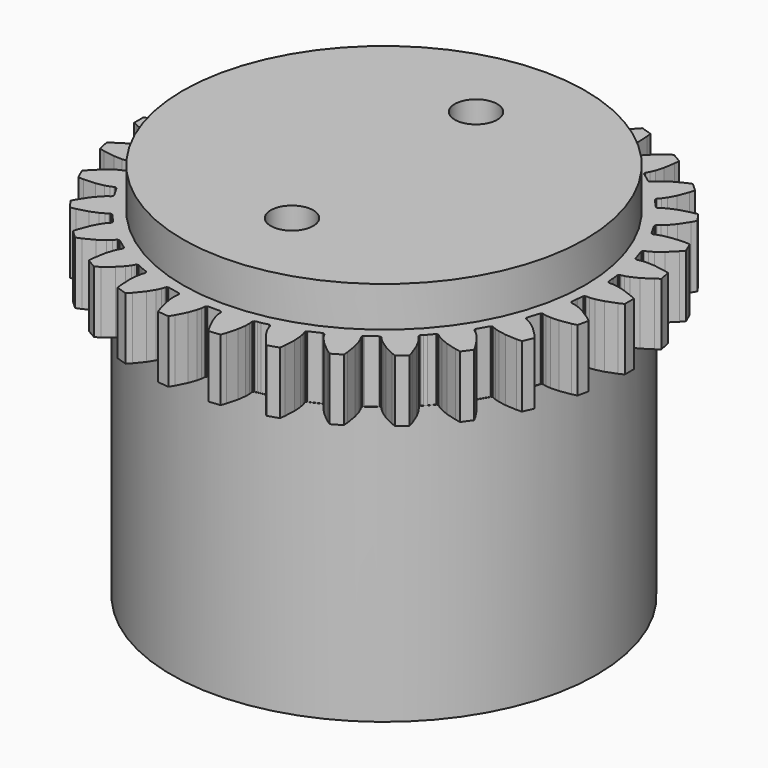
from build123d import *

# Parameters (mm, degrees)
F1_DEPTH = 5.4
F2_R     = 17.5
F3_DEPTH = 3.5
F5_DEPTH = 24.1
F6_W     = 28
F6_H     = 3.4
F7_DEPTH = 32
F8_R     = 1.85
F9_DEPTH = 21


with BuildPart() as f1:
    # F0 (on Top) → F1 (new body)
    with BuildSketch(Plane.XY):
        Polygon((6.053497, 16.660909), (5.945243, 16.640624), (5.844637, 16.674979), (5.773339, 16.756577), (5.645477, 16.991161), (5.39219, 17.326857), (4.906384, 17.832047), (4.145855, 18.452037), (3.760871, 18.716082), (2.90947, 18.224525), (2.945647, 17.759097), (3.10231, 16.790465), (3.296915, 16.117149), (3.460992, 15.729948), (3.600217, 15.501924), (3.635234, 15.399379), (3.614287, 15.293064), (3.542989, 15.211466), (2.763128, 14.644864), (2.663491, 14.602271), (2.555907, 14.615202), (2.469202, 14.680193), (2.29536, 14.883067), (1.977813, 15.158766), (1.397588, 15.551912), (0.524775, 16.000231), (0.093306, 16.178463), (-0.637289, 15.520632), (-0.505134, 15.072896), (-0.150505, 14.158002), (0.179837, 13.539861), (0.420833, 13.195235), (0.604424, 13.00114), (0.659996, 12.908116), (0.662977, 12.804879), (0.608836, 12.705131), (0.557391, 12.647995), (-0.03618, 11.988768), (-0.124783, 11.92639), (-0.232705, 11.916671), (-0.331028, 11.962215), (-0.54325, 12.124512), (-0.911179, 12.328164), (-1.560465, 12.592083), (-2.507416, 12.849138), (-2.966512, 12.933767), (-3.544372, 12.138412), (-3.322015, 11.727937), (-2.784918, 10.906768), (-2.333276, 10.370816), (-2.025895, 10.083827), (-1.805961, 9.932144), (-1.732263, 9.852707), (-1.708157, 9.747064), (-1.740102, 9.643521), (-2.167855, 8.902631), (-2.222082, 8.808706), (-2.29774, 8.728665), (-2.399324, 8.697324), (-2.504967, 8.72143), (-2.746295, 8.836057), (-3.148526, 8.958762), (-3.838494, 9.08192), (-4.818197, 9.136475), (-5.284857, 9.123804), (-5.684725, 8.225685), (-5.381885, 7.870411), (-4.685794, 7.178855), (-4.13259, 6.748517), (-3.772258, 6.531707), (-3.525594, 6.429065), (-3.43699, 6.366687), (-3.391446, 6.268364), (-3.401165, 6.160442), (-3.699046, 5.243661), (-3.754618, 5.150637), (-3.849256, 5.097863), (-3.957603, 5.099478), (-4.21749, 5.161424), (-4.636442, 5.19782), (-5.33694, 5.174834), (-6.306576, 5.024505), (-6.760403, 4.915087), (-6.964804, 3.953457), (-6.594716, 3.66891), (-5.770054, 3.137191), (-5.139467, 2.831275), (-4.741931, 2.69412), (-4.479317, 2.645006), (-4.37968, 2.602413), (-4.31432, 2.525752), (-4.301758, 2.408123), (-4.338657, 2.057047), (-4.402519, 1.449443), (-4.437536, 1.346898), (-4.519134, 1.2756), (-4.625449, 1.254653), (-4.892536, 1.261213), (-5.309901, 1.209708), (-5.990311, 1.041582), (-6.907503, 0.69294), (-7.328664, 0.491556), (-7.328664, -0.491556), (-6.907503, -0.69294), (-5.990311, -1.041582), (-5.309901, -1.209708), (-4.892536, -1.261213), (-4.625449, -1.254653), (-4.519134, -1.2756), (-4.437536, -1.346898), (-4.402519, -1.449443), (-4.355117, -1.900444), (-4.301758, -2.408123), (-4.314689, -2.515707), (-4.37968, -2.602413), (-4.479317, -2.645006), (-4.741931, -2.69412), (-5.139467, -2.831275), (-5.770054, -3.137191), (-6.594716, -3.66891), (-6.964804, -3.953457), (-6.760403, -4.915087), (-6.306576, -5.024505), (-5.33694, -5.174834), (-4.636442, -5.19782), (-4.21749, -5.161424), (-3.957603, -5.099478), (-3.849256, -5.097863), (-3.754618, -5.150637), (-3.699046, -5.243661), (-3.401165, -6.160442), (-3.391446, -6.268364), (-3.43699, -6.366687), (-3.525594, -6.429065), (-3.772258, -6.531707), (-4.13259, -6.748517), (-4.685794, -7.178855), (-5.381885, -7.870411), (-5.684725, -8.225685), (-5.284857, -9.123804), (-4.818197, -9.136475), (-3.838494, -9.08192), (-3.148526, -8.958762), (-2.746295, -8.836057), (-2.504967, -8.72143), (-2.399324, -8.697324), (-2.29774, -8.728665), (-2.222082, -8.808706), (-2.167855, -8.902631), (-1.740102, -9.643521), (-1.708157, -9.747064), (-1.732263, -9.852707), (-1.805961, -9.932144), (-2.025895, -10.083827), (-2.333276, -10.370816), (-2.784918, -10.906768), (-3.322015, -11.727937), (-3.544372, -12.138412), (-2.966512, -12.933767), (-2.507416, -12.849138), (-1.560465, -12.592083), (-0.911179, -12.328164), (-0.54325, -12.124512), (-0.331028, -11.962215), (-0.232705, -11.916671), (-0.124783, -11.92639), (-0.03618, -11.988768), (0.557391, -12.647995), (0.608836, -12.705131), (0.661611, -12.799769), (0.659996, -12.908116), (0.604424, -13.00114), (0.420833, -13.195235), (0.179837, -13.539861), (-0.150505, -14.158002), (-0.505134, -15.072896), (-0.637289, -15.520632), (0.093306, -16.178463), (0.524775, -16.000231), (1.397588, -15.551912), (1.977813, -15.158766), (2.29536, -14.883067), (2.469202, -14.680193), (2.555907, -14.615202), (2.663491, -14.602271), (2.763128, -14.644864), (3.542989, -15.211466), (3.614287, -15.293064), (3.635234, -15.399379), (3.600217, -15.501924), (3.460992, -15.729948), (3.296915, -16.117149), (3.10231, -16.790465), (2.945647, -17.759097), (2.90947, -18.224525), (3.760871, -18.716082), (4.145855, -18.452037), (4.906384, -17.832047), (5.39219, -17.326857), (5.645477, -16.991161), (5.773339, -16.756577), (5.844637, -16.674979), (5.945243, -16.640624), (6.053497, -16.660909), (6.167227, -16.711545), (6.434124, -16.859839), (6.948588, -17.063832), (7.020824, -17.117978), (7.063418, -17.217615), (7.050486, -17.325199), (6.961713, -17.577187), (6.881725, -17.99004), (6.831363, -18.689103), (6.879513, -19.669141), (6.940895, -20.13192), (7.875891, -20.435718), (8.197564, -20.097401), (8.81257, -19.332836), (9.182725, -18.737681), (9.360682, -18.356659), (9.436978, -18.100618), (9.489753, -18.005979), (9.582777, -17.950407), (9.635958, -17.949614), (9.691123, -17.948792), (10.57563, -18.1368), (10.634019, -18.149211), (10.733523, -18.196431), (10.79472, -18.283358), (10.80444, -18.39128), (10.769998, -18.656218), (10.777594, -19.076681), (10.873676, -19.770938), (11.124536, -20.719548), (11.280793, -21.159453), (12.25852, -21.262216), (12.502824, -20.864412), (12.945429, -19.988688), (13.183756, -19.329578), (13.278605, -18.919884), (13.299999, -18.653574), (13.331944, -18.550031), (13.411381, -18.476333), (13.517025, -18.452227), (14.480985, -18.452227), (14.586629, -18.476333), (14.666066, -18.550031), (14.698011, -18.653574), (14.719405, -18.919884), (14.814254, -19.329578), (15.052581, -19.988688), (15.495186, -20.864412), (15.73949, -21.262216), (16.717217, -21.159453), (16.873474, -20.719548), (17.124334, -19.770938), (17.220416, -19.076681), (17.228012, -18.656218), (17.19357, -18.39128), (17.20329, -18.283358), (17.263495, -18.197841), (17.363991, -18.149211), (17.508227, -18.118552), (17.789503, -18.086249), (18.324961, -17.949061), (18.415233, -17.950407), (18.508257, -18.005979), (18.561032, -18.100618), (18.637328, -18.356659), (18.815285, -18.737681), (19.18544, -19.332836), (19.800446, -20.097401), (20.122119, -20.435718), (21.057115, -20.13192), (21.118497, -19.669141), (21.166647, -18.689103), (21.116285, -17.99004), (21.036297, -17.577187), (20.947524, -17.325199), (20.934592, -17.217615), (20.977186, -17.117978), (21.019706, -17.086106), (21.051116, -17.073707), (21.944513, -16.660909), (22.052767, -16.640624), (22.153373, -16.674979), (22.224671, -16.756577), (22.352533, -16.991161), (22.60582, -17.326857), (23.091626, -17.832047), (23.852155, -18.452037), (24.237139, -18.716082), (25.08854, -18.224525), (25.052363, -17.759097), (24.8957, -16.790465), (24.701095, -16.117149), (24.537018, -15.729948), (24.397793, -15.501924), (24.362776, -15.399379), (24.383723, -15.293064), (24.455021, -15.211466), (25.234882, -14.644864), (25.334519, -14.602271), (25.442103, -14.615202), (25.528808, -14.680193), (25.70265, -14.883067), (26.020197, -15.158766), (26.600422, -15.551912), (27.473235, -16.000231), (27.904704, -16.178463), (28.635299, -15.520632), (28.503144, -15.072896), (28.148515, -14.158002), (27.818173, -13.539861), (27.577177, -13.195235), (27.393586, -13.00114), (27.338014, -12.908116), (27.336455, -12.803543), (27.389174, -12.705131), (27.510949, -12.569886), (27.695707, -12.404952), (28.048978, -11.978357), (28.122793, -11.92639), (28.230715, -11.916671), (28.329038, -11.962215), (28.54126, -12.124512), (28.909189, -12.328164), (29.558475, -12.592083), (30.505426, -12.849138), (30.964522, -12.933767), (31.542382, -12.138412), (31.320025, -11.727937), (30.782928, -10.906768), (30.331286, -10.370816), (30.023905, -10.083827), (29.803971, -9.932144), (29.730273, -9.852707), (29.706167, -9.747064), (29.738112, -9.643521), (30.220092, -8.808706), (30.293791, -8.729269), (30.397334, -8.697324), (30.502977, -8.72143), (30.744305, -8.836057), (31.146536, -8.958762), (31.836504, -9.08192), (32.816207, -9.136475), (33.282867, -9.123804), (33.682735, -8.225685), (33.379895, -7.870411), (32.683804, -7.178855), (32.1306, -6.748517), (31.770268, -6.531707), (31.523604, -6.429065), (31.435, -6.366687), (31.389456, -6.268364), (31.399175, -6.160442), (31.697056, -5.243661), (31.752628, -5.150637), (31.847266, -5.097863), (31.955613, -5.099478), (32.2155, -5.161424), (32.634452, -5.19782), (33.33495, -5.174834), (34.304586, -5.024505), (34.758413, -4.915087), (34.962814, -3.953457), (34.592726, -3.66891), (33.768064, -3.137191), (33.137477, -2.831275), (32.739941, -2.69412), (32.477327, -2.645006), (32.37769, -2.602413), (32.31233, -2.525752), (32.299768, -2.408123), (32.336667, -2.057047), (32.353127, -1.900444), (32.406371, -1.432334), (32.435546, -1.346898), (32.517144, -1.2756), (32.623459, -1.254653), (32.890546, -1.261213), (33.307911, -1.209708), (33.988321, -1.041582), (34.905513, -0.69294), (35.326674, -0.491556), (35.326674, 0.491556), (34.905513, 0.69294), (33.988321, 1.041582), (33.307911, 1.209708), (32.890546, 1.261213), (32.623459, 1.254653), (32.517144, 1.2756), (32.435546, 1.346898), (32.406371, 1.432334), (32.353127, 1.900444), (32.371361, 1.984309), (32.299768, 2.408123), (32.313295, 2.520678), (32.37769, 2.602413), (32.477327, 2.645006), (32.739941, 2.69412), (33.137477, 2.831275), (33.768064, 3.137191), (34.592726, 3.66891), (34.962814, 3.953457), (34.758413, 4.915087), (34.304586, 5.024505), (33.33495, 5.174834), (32.634452, 5.19782), (32.2155, 5.161424), (31.955613, 5.099478), (31.847266, 5.097863), (31.752628, 5.150637), (31.697056, 5.243661), (31.399175, 6.160442), (31.389456, 6.268364), (31.435, 6.366687), (31.523604, 6.429065), (31.770268, 6.531707), (32.1306, 6.748517), (32.683804, 7.178855), (33.379895, 7.870411), (33.682735, 8.225685), (33.282867, 9.123804), (32.816207, 9.136475), (31.836504, 9.08192), (31.146536, 8.958762), (30.744305, 8.836057), (30.502977, 8.72143), (30.397334, 8.697324), (30.29575, 8.728665), (30.220092, 8.808706), (29.738112, 9.643521), (29.706167, 9.747064), (29.730273, 9.852707), (29.803971, 9.932144), (30.023905, 10.083827), (30.331286, 10.370816), (30.782928, 10.906768), (31.320025, 11.727937), (31.542382, 12.138412), (30.964522, 12.933767), (30.505426, 12.849138), (29.558475, 12.592083), (28.909189, 12.328164), (28.54126, 12.124512), (28.329038, 11.962215), (28.230715, 11.916671), (28.122793, 11.92639), (28.03419, 11.988768), (27.510949, 12.569886), (27.389174, 12.705131), (27.336455, 12.803543), (27.338014, 12.908116), (27.393586, 13.00114), (27.577177, 13.195235), (27.818173, 13.539861), (28.148515, 14.158002), (28.503144, 15.072896), (28.635299, 15.520632), (27.904704, 16.178463), (27.473235, 16.000231), (26.600422, 15.551912), (26.020197, 15.158766), (25.70265, 14.883067), (25.528808, 14.680193), (25.442103, 14.615202), (25.334519, 14.602271), (25.234882, 14.644864), (24.455021, 15.211466), (24.383723, 15.293064), (24.362776, 15.399379), (24.397793, 15.501924), (24.537018, 15.729948), (24.701095, 16.117149), (24.8957, 16.790465), (25.052363, 17.759097), (25.08854, 18.224525), (24.237139, 18.716082), (23.852155, 18.452037), (23.091626, 17.832047), (22.60582, 17.326857), (22.352533, 16.991161), (22.224671, 16.756577), (22.153373, 16.674979), (22.0544, 16.641182), (21.944513, 16.660909), (21.051116, 17.073707), (21.019706, 17.086106), (20.977186, 17.117978), (20.934592, 17.217615), (20.947524, 17.325199), (21.036297, 17.577187), (21.116285, 17.99004), (21.166647, 18.689103), (21.118497, 19.669141), (21.057115, 20.13192), (20.122119, 20.435718), (19.800446, 20.097401), (19.18544, 19.332836), (18.815285, 18.737681), (18.637328, 18.356659), (18.561032, 18.100618), (18.508257, 18.005979), (18.415233, 17.950407), (18.324961, 17.949061), (17.789503, 18.086249), (17.508227, 18.118552), (17.363991, 18.149211), (17.264487, 18.196431), (17.20329, 18.283358), (17.19357, 18.39128), (17.228012, 18.656218), (17.220416, 19.076681), (17.124334, 19.770938), (16.873474, 20.719548), (16.717217, 21.159453), (15.73949, 21.262216), (15.495186, 20.864412), (15.052581, 19.988688), (14.814254, 19.329578), (14.719405, 18.919884), (14.698011, 18.653574), (14.666066, 18.550031), (14.586629, 18.476333), (14.480985, 18.452227), (13.517025, 18.452227), (13.411381, 18.476333), (13.331944, 18.550031), (13.299999, 18.653574), (13.278605, 18.919884), (13.183756, 19.329578), (12.945429, 19.988688), (12.502824, 20.864412), (12.25852, 21.262216), (11.280793, 21.159453), (11.124536, 20.719548), (10.873676, 19.770938), (10.777594, 19.076681), (10.769998, 18.656218), (10.80444, 18.39128), (10.79472, 18.283358), (10.734515, 18.197841), (10.634019, 18.149211), (10.57563, 18.1368), (9.691123, 17.948792), (9.635958, 17.949614), (9.582777, 17.950407), (9.489753, 18.005979), (9.436978, 18.100618), (9.360682, 18.356659), (9.182725, 18.737681), (8.81257, 19.332836), (8.197564, 20.097401), (7.875891, 20.435718), (6.940895, 20.13192), (6.879513, 19.669141), (6.831363, 18.689103), (6.881725, 17.99004), (6.961713, 17.577187), (7.050486, 17.325199), (7.063418, 17.217615), (7.020824, 17.117978), (6.948588, 17.063832), (6.167227, 16.711545), align=None)
        Polygon((8.547945, 16.776637), (10.693599, 17.327547), (12.89138, 17.605191), (15.10663, 17.605191), (17.304411, 17.327547), (19.450065, 16.776637), (21.509752, 15.961149), (23.45099, 14.893945), (25.243164, 13.591854), (26.858012, 12.075411), (28.270065, 10.368532), (29.457055, 8.498135), (30.400262, 6.493717), (31.084812, 4.38689), (31.499908, 2.210878), (31.639005, 0), (31.499908, -2.210878), (31.084812, -4.38689), (30.400262, -6.493717), (29.457055, -8.498135), (28.270065, -10.368532), (26.858012, -12.075411), (25.243164, -13.591854), (23.45099, -14.893945), (21.509752, -15.961149), (19.450065, -16.776637), (17.304411, -17.327547), (15.10663, -17.605191), (12.89138, -17.605191), (10.693599, -17.327547), (8.547945, -16.776637), (6.488258, -15.961149), (4.586874, -14.915854), (4.54702, -14.893945), (2.754846, -13.591854), (1.139998, -12.075411), (-0.272055, -10.368532), (-1.429377, -8.544884), (-1.459045, -8.498135), (-2.402252, -6.493717), (-3.086802, -4.38689), (-3.501898, -2.210878), (-3.640995, 0), (-3.501898, 2.210878), (-3.086802, 4.38689), (-2.402252, 6.493717), (-1.459045, 8.498135), (-0.272055, 10.368532), (1.139998, 12.075411), (2.754846, 13.591854), (4.54702, 14.893945), (6.488258, 15.961149), align=None, mode=Mode.SUBTRACT)
        Polygon((12.89138, 17.605191), (10.693599, 17.327547), (8.547945, 16.776637), (6.488258, 15.961149), (4.54702, 14.893945), (2.754846, 13.591854), (1.139998, 12.075411), (-0.272055, 10.368532), (-1.459045, 8.498135), (-2.402252, 6.493717), (-3.086802, 4.38689), (-3.501898, 2.210878), (-3.640995, 0), (-3.501898, -2.210878), (-3.086802, -4.38689), (-2.402252, -6.493717), (-1.459045, -8.498135), (-1.429377, -8.544884), (-0.272055, -10.368532), (1.139998, -12.075411), (2.754846, -13.591854), (4.54702, -14.893945), (4.586874, -14.915854), (6.488258, -15.961149), (8.547945, -16.776637), (10.693599, -17.327547), (12.89138, -17.605191), (15.10663, -17.605191), (17.304411, -17.327547), (19.450065, -16.776637), (21.509752, -15.961149), (23.45099, -14.893945), (25.243164, -13.591854), (26.858012, -12.075411), (28.270065, -10.368532), (29.457055, -8.498135), (30.400262, -6.493717), (31.084812, -4.38689), (31.499908, -2.210878), (31.639005, 0), (31.499908, 2.210878), (31.084812, 4.38689), (30.400262, 6.493717), (29.457055, 8.498135), (28.270065, 10.368532), (26.858012, 12.075411), (25.243164, 13.591854), (23.45099, 14.893945), (21.509752, 15.961149), (19.450065, 16.776637), (17.304411, 17.327547), (15.10663, 17.605191), align=None)
    extrude(amount=F1_DEPTH)

    # F2 (on face) → F3 (join)
    with BuildSketch(Plane.XY.offset(5.4)):
        with Locations((13.999005, 0)):
            Circle(F2_R)
    extrude(amount=F3_DEPTH)

    # F4 (on face) → F5 (join)
    with BuildSketch(Plane(origin=(0, 0, 0), x_dir=(1, 0, 0), z_dir=(0, 0, -1))):
        with BuildLine():
            Line((-4.500995, 0), (32.499005, 0))
            ThreePointArc((32.499005, 0), (13.999005, 18.5), (-4.500995, 0))
        make_face()
        with BuildLine():
            ThreePointArc((-4.500995, 0), (13.999005, -18.5), (32.499005, 0))
            Line((32.499005, 0), (-4.500995, 0))
        make_face()
    extrude(amount=F5_DEPTH)

    # F6 (on face) → F7 (cut)
    with BuildSketch(Plane(origin=(0, 0, -24.1), x_dir=(1, 0, 0), z_dir=(0, 0, -1))):
        with Locations((13.999005, 0)):
            Rectangle(F6_W, F6_H)
    extrude(amount=-F7_DEPTH, mode=Mode.SUBTRACT)

    # F8 (on face) → F9 (cut)
    with BuildSketch(Plane.XY.offset(8.9)):
        with Locations((13.999005, 10)):
            Circle(F8_R)
        with Locations((13.999005, -10)):
            Circle(F8_R)
    extrude(amount=-F9_DEPTH, mode=Mode.SUBTRACT)


solid = f1.part
